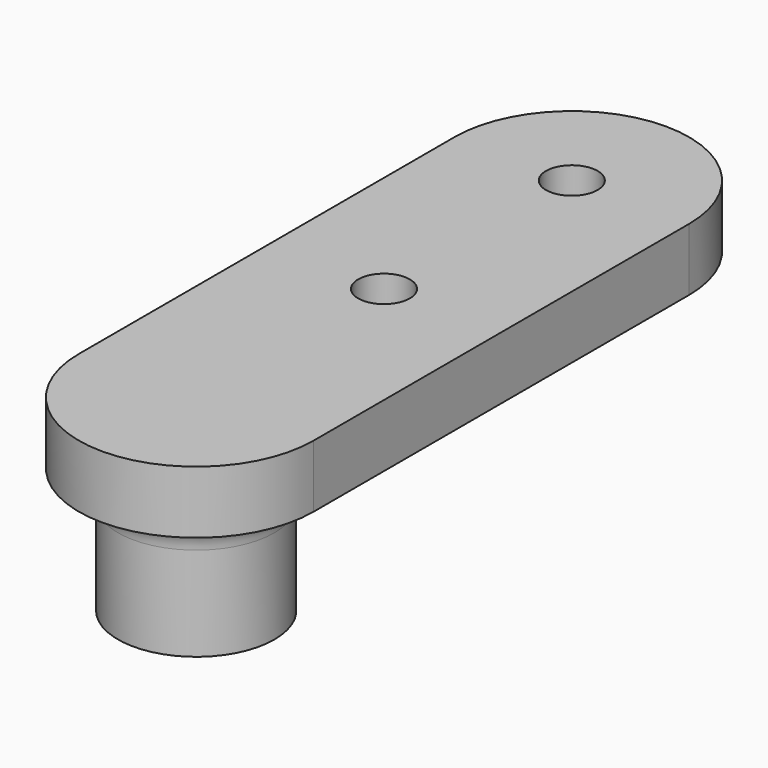
from build123d import *

# Parameters (mm, degrees)
SKETCH_R     = 10
PAD_DEPTH    = 16
POCKET_DEPTH = 12
SKETCH002_R  = 3.3
PAD001_DEPTH = 8
FILLET_R     = 4


with BuildPart() as part:
    # Sketch → Pad (new body)
    with BuildSketch(Plane.XY):
        Circle(SKETCH_R)
    extrude(amount=PAD_DEPTH)

    # InvoluteGear → Pocket (cut)
    with BuildSketch(Plane.XY):
        with BuildLine():
            add(Edge.make_bspline(
                [(3.273988, -0.413426), (3.078807, -0.255384), (2.914417, -0.191329), (2.824736, -0.180769), (2.814315, -0.179349)],
                knots=[0, 0, 0, 0, 0, 1, 1, 1, 1, 1], degree=4))
            ThreePointArc((2.814315, -0.179349), (2.808594, -1e-06), (2.814291, 0.179347))
            add(Edge.make_bspline(
                [(2.814291, 0.179347), (2.824736, 0.180769), (2.914417, 0.191329), (3.078807, 0.255384), (3.273988, 0.413426)],
                knots=[0, 0, 0, 0, 0, 1, 1, 1, 1, 1], degree=4))
            ThreePointArc((3.273988, 0.413426), (3.326082, 0.5268), (3.241504, 0.618526))
            add(Edge.make_bspline(
                [(3.241504, 0.618526), (3.007037, 0.708519), (2.830899, 0.71864), (2.742344, 0.70097), (2.731994, 0.6991)],
                knots=[0, 0, 0, 0, 0, 1, 1, 1, 1, 1], degree=4))
            ThreePointArc((2.731994, 0.6991), (2.671132, 0.867902), (2.621129, 1.040232))
            add(Edge.make_bspline(
                [(2.621129, 1.040232), (2.630623, 1.044813), (2.712652, 1.082569), (2.849201, 1.194288), (2.985992, 1.40491)],
                knots=[0, 0, 0, 0, 0, 1, 1, 1, 1, 1], degree=4))
            ThreePointArc((2.985992, 1.40491), (3.000502, 1.528832), (2.891718, 1.589933))
            add(Edge.make_bspline(
                [(2.891718, 1.589933), (2.640918, 1.603067), (2.470273, 1.558263), (2.391512, 1.514093), (2.382247, 1.509117)],
                knots=[0, 0, 0, 0, 0, 1, 1, 1, 1, 1], degree=4))
            ThreePointArc((2.382247, 1.509117), (2.272201, 1.650849), (2.171392, 1.799293))
            add(Edge.make_bspline(
                [(2.171392, 1.799293), (2.179006, 1.806583), (2.245353, 1.867839), (2.340696, 2.016287), (2.405706, 2.258871)],
                knots=[0, 0, 0, 0, 0, 1, 1, 1, 1, 1], degree=4))
            ThreePointArc((2.405706, 2.258871), (2.381212, 2.381212), (2.258871, 2.405706))
            add(Edge.make_bspline(
                [(2.258871, 2.405706), (2.016287, 2.340696), (1.867839, 2.245353), (1.806583, 2.179006), (1.799309, 2.17141)],
                knots=[0, 0, 0, 0, 0, 1, 1, 1, 1, 1], degree=4))
            ThreePointArc((1.799309, 2.17141), (1.650851, 2.272199), (1.509104, 2.382227))
            add(Edge.make_bspline(
                [(1.509104, 2.382227), (1.514093, 2.391512), (1.558263, 2.470273), (1.603067, 2.640918), (1.589933, 2.891718)],
                knots=[0, 0, 0, 0, 0, 1, 1, 1, 1, 1], degree=4))
            ThreePointArc((1.589933, 2.891718), (1.528832, 3.000502), (1.40491, 2.985992))
            add(Edge.make_bspline(
                [(1.40491, 2.985992), (1.194288, 2.849201), (1.082569, 2.712652), (1.044813, 2.630623), (1.040242, 2.621151)],
                knots=[0, 0, 0, 0, 0, 1, 1, 1, 1, 1], degree=4))
            ThreePointArc((1.040242, 2.621151), (0.867905, 2.671131), (0.699095, 2.731971))
            add(Edge.make_bspline(
                [(0.699095, 2.731971), (0.70097, 2.742344), (0.71864, 2.830899), (0.708519, 3.007037), (0.618526, 3.241504)],
                knots=[0, 0, 0, 0, 0, 1, 1, 1, 1, 1], degree=4))
            ThreePointArc((0.618526, 3.241504), (0.5268, 3.326082), (0.413426, 3.273988))
            add(Edge.make_bspline(
                [(0.413426, 3.273988), (0.255384, 3.078807), (0.191329, 2.914417), (0.180769, 2.824736), (0.179349, 2.814315)],
                knots=[0, 0, 0, 0, 0, 1, 1, 1, 1, 1], degree=4))
            ThreePointArc((0.179349, 2.814315), (1e-06, 2.808594), (-0.179347, 2.814291))
            add(Edge.make_bspline(
                [(-0.179347, 2.814291), (-0.180769, 2.824736), (-0.191329, 2.914417), (-0.255384, 3.078807), (-0.413426, 3.273988)],
                knots=[0, 0, 0, 0, 0, 1, 1, 1, 1, 1], degree=4))
            ThreePointArc((-0.413426, 3.273988), (-0.5268, 3.326082), (-0.618526, 3.241504))
            add(Edge.make_bspline(
                [(-0.618526, 3.241504), (-0.708519, 3.007037), (-0.71864, 2.830899), (-0.70097, 2.742344), (-0.6991, 2.731994)],
                knots=[0, 0, 0, 0, 0, 1, 1, 1, 1, 1], degree=4))
            ThreePointArc((-0.6991, 2.731994), (-0.867902, 2.671132), (-1.040232, 2.621129))
            add(Edge.make_bspline(
                [(-1.040232, 2.621129), (-1.044813, 2.630623), (-1.082569, 2.712652), (-1.194288, 2.849201), (-1.40491, 2.985992)],
                knots=[0, 0, 0, 0, 0, 1, 1, 1, 1, 1], degree=4))
            ThreePointArc((-1.40491, 2.985992), (-1.528832, 3.000502), (-1.589933, 2.891718))
            add(Edge.make_bspline(
                [(-1.589933, 2.891718), (-1.603067, 2.640918), (-1.558263, 2.470273), (-1.514093, 2.391512), (-1.509117, 2.382247)],
                knots=[0, 0, 0, 0, 0, 1, 1, 1, 1, 1], degree=4))
            ThreePointArc((-1.509117, 2.382247), (-1.650849, 2.272201), (-1.799293, 2.171392))
            add(Edge.make_bspline(
                [(-1.799293, 2.171392), (-1.806583, 2.179006), (-1.867839, 2.245353), (-2.016287, 2.340696), (-2.258871, 2.405706)],
                knots=[0, 0, 0, 0, 0, 1, 1, 1, 1, 1], degree=4))
            ThreePointArc((-2.258871, 2.405706), (-2.381212, 2.381212), (-2.405706, 2.258871))
            add(Edge.make_bspline(
                [(-2.405706, 2.258871), (-2.340696, 2.016287), (-2.245353, 1.867839), (-2.179006, 1.806583), (-2.17141, 1.799309)],
                knots=[0, 0, 0, 0, 0, 1, 1, 1, 1, 1], degree=4))
            ThreePointArc((-2.17141, 1.799309), (-2.272199, 1.650851), (-2.382227, 1.509104))
            add(Edge.make_bspline(
                [(-2.382227, 1.509104), (-2.391512, 1.514093), (-2.470273, 1.558263), (-2.640918, 1.603067), (-2.891718, 1.589933)],
                knots=[0, 0, 0, 0, 0, 1, 1, 1, 1, 1], degree=4))
            ThreePointArc((-2.891718, 1.589933), (-3.000502, 1.528832), (-2.985992, 1.40491))
            add(Edge.make_bspline(
                [(-2.985992, 1.40491), (-2.849201, 1.194288), (-2.712652, 1.082569), (-2.630623, 1.044813), (-2.621151, 1.040242)],
                knots=[0, 0, 0, 0, 0, 1, 1, 1, 1, 1], degree=4))
            ThreePointArc((-2.621151, 1.040242), (-2.671131, 0.867905), (-2.731971, 0.699095))
            add(Edge.make_bspline(
                [(-2.731971, 0.699095), (-2.742344, 0.70097), (-2.830899, 0.71864), (-3.007037, 0.708519), (-3.241504, 0.618526)],
                knots=[0, 0, 0, 0, 0, 1, 1, 1, 1, 1], degree=4))
            ThreePointArc((-3.241504, 0.618526), (-3.326082, 0.5268), (-3.273988, 0.413426))
            add(Edge.make_bspline(
                [(-3.273988, 0.413426), (-3.078807, 0.255384), (-2.914417, 0.191329), (-2.824736, 0.180769), (-2.814315, 0.179349)],
                knots=[0, 0, 0, 0, 0, 1, 1, 1, 1, 1], degree=4))
            ThreePointArc((-2.814315, 0.179349), (-2.808594, 1e-06), (-2.814291, -0.179347))
            add(Edge.make_bspline(
                [(-2.814291, -0.179347), (-2.824736, -0.180769), (-2.914417, -0.191329), (-3.078807, -0.255384), (-3.273988, -0.413426)],
                knots=[0, 0, 0, 0, 0, 1, 1, 1, 1, 1], degree=4))
            ThreePointArc((-3.273988, -0.413426), (-3.326082, -0.5268), (-3.241504, -0.618526))
            add(Edge.make_bspline(
                [(-3.241504, -0.618526), (-3.007037, -0.708519), (-2.830899, -0.71864), (-2.742344, -0.70097), (-2.731994, -0.6991)],
                knots=[0, 0, 0, 0, 0, 1, 1, 1, 1, 1], degree=4))
            ThreePointArc((-2.731994, -0.6991), (-2.671132, -0.867902), (-2.621129, -1.040232))
            add(Edge.make_bspline(
                [(-2.621129, -1.040232), (-2.630623, -1.044813), (-2.712652, -1.082569), (-2.849201, -1.194288), (-2.985992, -1.40491)],
                knots=[0, 0, 0, 0, 0, 1, 1, 1, 1, 1], degree=4))
            ThreePointArc((-2.985992, -1.40491), (-3.000502, -1.528832), (-2.891718, -1.589933))
            add(Edge.make_bspline(
                [(-2.891718, -1.589933), (-2.640918, -1.603067), (-2.470273, -1.558263), (-2.391512, -1.514093), (-2.382247, -1.509117)],
                knots=[0, 0, 0, 0, 0, 1, 1, 1, 1, 1], degree=4))
            ThreePointArc((-2.382247, -1.509117), (-2.272201, -1.650849), (-2.171392, -1.799293))
            add(Edge.make_bspline(
                [(-2.171392, -1.799293), (-2.179006, -1.806583), (-2.245353, -1.867839), (-2.340696, -2.016287), (-2.405706, -2.258871)],
                knots=[0, 0, 0, 0, 0, 1, 1, 1, 1, 1], degree=4))
            ThreePointArc((-2.405706, -2.258871), (-2.381212, -2.381212), (-2.258871, -2.405706))
            add(Edge.make_bspline(
                [(-2.258871, -2.405706), (-2.016287, -2.340696), (-1.867839, -2.245353), (-1.806583, -2.179006), (-1.799309, -2.17141)],
                knots=[0, 0, 0, 0, 0, 1, 1, 1, 1, 1], degree=4))
            ThreePointArc((-1.799309, -2.17141), (-1.650851, -2.272199), (-1.509104, -2.382227))
            add(Edge.make_bspline(
                [(-1.509104, -2.382227), (-1.514093, -2.391512), (-1.558263, -2.470273), (-1.603067, -2.640918), (-1.589933, -2.891718)],
                knots=[0, 0, 0, 0, 0, 1, 1, 1, 1, 1], degree=4))
            ThreePointArc((-1.589933, -2.891718), (-1.528832, -3.000502), (-1.40491, -2.985992))
            add(Edge.make_bspline(
                [(-1.40491, -2.985992), (-1.194288, -2.849201), (-1.082569, -2.712652), (-1.044813, -2.630623), (-1.040242, -2.621151)],
                knots=[0, 0, 0, 0, 0, 1, 1, 1, 1, 1], degree=4))
            ThreePointArc((-1.040242, -2.621151), (-0.867905, -2.671131), (-0.699095, -2.731971))
            add(Edge.make_bspline(
                [(-0.699095, -2.731971), (-0.70097, -2.742344), (-0.71864, -2.830899), (-0.708519, -3.007037), (-0.618526, -3.241504)],
                knots=[0, 0, 0, 0, 0, 1, 1, 1, 1, 1], degree=4))
            ThreePointArc((-0.618526, -3.241504), (-0.5268, -3.326082), (-0.413426, -3.273988))
            add(Edge.make_bspline(
                [(-0.413426, -3.273988), (-0.255384, -3.078807), (-0.191329, -2.914417), (-0.180769, -2.824736), (-0.179349, -2.814315)],
                knots=[0, 0, 0, 0, 0, 1, 1, 1, 1, 1], degree=4))
            ThreePointArc((-0.179349, -2.814315), (-1e-06, -2.808594), (0.179347, -2.814291))
            add(Edge.make_bspline(
                [(0.179347, -2.814291), (0.180769, -2.824736), (0.191329, -2.914417), (0.255384, -3.078807), (0.413426, -3.273988)],
                knots=[0, 0, 0, 0, 0, 1, 1, 1, 1, 1], degree=4))
            ThreePointArc((0.413426, -3.273988), (0.5268, -3.326082), (0.618526, -3.241504))
            add(Edge.make_bspline(
                [(0.618526, -3.241504), (0.708519, -3.007037), (0.71864, -2.830899), (0.70097, -2.742344), (0.6991, -2.731994)],
                knots=[0, 0, 0, 0, 0, 1, 1, 1, 1, 1], degree=4))
            ThreePointArc((0.6991, -2.731994), (0.867902, -2.671132), (1.040232, -2.621129))
            add(Edge.make_bspline(
                [(1.040232, -2.621129), (1.044813, -2.630623), (1.082569, -2.712652), (1.194288, -2.849201), (1.40491, -2.985992)],
                knots=[0, 0, 0, 0, 0, 1, 1, 1, 1, 1], degree=4))
            ThreePointArc((1.40491, -2.985992), (1.528832, -3.000502), (1.589933, -2.891718))
            add(Edge.make_bspline(
                [(1.589933, -2.891718), (1.603067, -2.640918), (1.558263, -2.470273), (1.514093, -2.391512), (1.509117, -2.382247)],
                knots=[0, 0, 0, 0, 0, 1, 1, 1, 1, 1], degree=4))
            ThreePointArc((1.509117, -2.382247), (1.650849, -2.272201), (1.799293, -2.171392))
            add(Edge.make_bspline(
                [(1.799293, -2.171392), (1.806583, -2.179006), (1.867839, -2.245353), (2.016287, -2.340696), (2.258871, -2.405706)],
                knots=[0, 0, 0, 0, 0, 1, 1, 1, 1, 1], degree=4))
            ThreePointArc((2.258871, -2.405706), (2.381212, -2.381212), (2.405706, -2.258871))
            add(Edge.make_bspline(
                [(2.405706, -2.258871), (2.340696, -2.016287), (2.245353, -1.867839), (2.179006, -1.806583), (2.17141, -1.799309)],
                knots=[0, 0, 0, 0, 0, 1, 1, 1, 1, 1], degree=4))
            ThreePointArc((2.17141, -1.799309), (2.272199, -1.650851), (2.382227, -1.509104))
            add(Edge.make_bspline(
                [(2.382227, -1.509104), (2.391512, -1.514093), (2.470273, -1.558263), (2.640918, -1.603067), (2.891718, -1.589933)],
                knots=[0, 0, 0, 0, 0, 1, 1, 1, 1, 1], degree=4))
            ThreePointArc((2.891718, -1.589933), (3.000502, -1.528832), (2.985992, -1.40491))
            add(Edge.make_bspline(
                [(2.985992, -1.40491), (2.849201, -1.194288), (2.712652, -1.082569), (2.630623, -1.044813), (2.621151, -1.040242)],
                knots=[0, 0, 0, 0, 0, 1, 1, 1, 1, 1], degree=4))
            ThreePointArc((2.621151, -1.040242), (2.671131, -0.867905), (2.731971, -0.699095))
            add(Edge.make_bspline(
                [(2.731971, -0.699095), (2.742344, -0.70097), (2.830899, -0.71864), (3.007037, -0.708519), (3.241504, -0.618526)],
                knots=[0, 0, 0, 0, 0, 1, 1, 1, 1, 1], degree=4))
            ThreePointArc((3.241504, -0.618526), (3.326082, -0.5268), (3.273988, -0.413426))
        make_face()
    extrude(amount=POCKET_DEPTH, mode=Mode.SUBTRACT)

    # Sketch002 (on Face3 of Pocket) → Pad001 (join)
    with BuildSketch(Plane.XY.offset(16)):
        with BuildLine():
            ThreePointArc((15, 60), (0, 75), (-15, 60))
            Line((-15, 60), (-15, 0))
            ThreePointArc((-15, 0), (0, -15), (15, 0))
            Line((15, 60), (15, 0))
        make_face()
        with Locations((0, 60)):
            Circle(SKETCH002_R, mode=Mode.SUBTRACT)
        with Locations((0, 30)):
            Circle(SKETCH002_R, mode=Mode.SUBTRACT)
    extrude(amount=PAD001_DEPTH)

    # Fillet
    fillet_edges = [part.edges().sort_by_distance(p)[0] for p in [
        (-10, 0, 16),
    ]]
    fillet(fillet_edges, radius=FILLET_R)


solid = part.part
